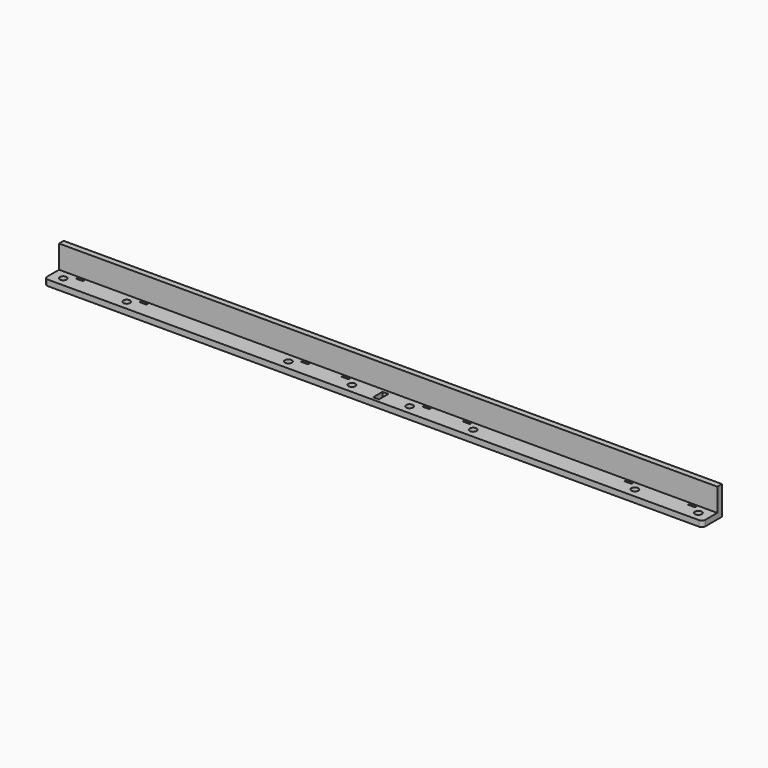
from build123d import *

# Parameters (mm, degrees)
F0_W     = 570
F0_H     = 5
F1_DEPTH = 20
F0_R     = 3
F0_W_2   = 5.1
F0_H_2   = 10.1
F0_W_3   = 6
F0_H_3   = 2
F2_DEPTH = 5


with BuildPart() as f1:
    # F0 (on Top) → F1 (new body)
    with BuildSketch(Plane.XY):
        with Locations((0, 10.5)):
            Rectangle(F0_W, F0_H)
    extrude(amount=F1_DEPTH)

    # F0 (on Top) → F2 (join)
    with BuildSketch(Plane.XY):
        with BuildLine():
            ThreePointArc((-285, -5), (-284.12132, -7.12132), (-282, -8))
            Line((-282, -8), (282, -8))
            ThreePointArc((282, -8), (284.12132, -7.12132), (285, -5))
            Line((285, -5), (285, 8))
            Line((285, 8), (-285, 8))
            Line((-285, 8), (-285, -5))
        make_face()
        with Locations((-275, 0)):
            Circle(F0_R, mode=Mode.SUBTRACT)
        with Locations((-220, 0)):
            Circle(F0_R, mode=Mode.SUBTRACT)
        with Locations((-80, 0)):
            Circle(F0_R, mode=Mode.SUBTRACT)
        with Locations((-25, 0)):
            Circle(F0_R, mode=Mode.SUBTRACT)
        Rectangle(F0_W_2, F0_H_2, mode=Mode.SUBTRACT)
        with Locations((25, 0)):
            Circle(F0_R, mode=Mode.SUBTRACT)
        with Locations((80, 0)):
            Circle(F0_R, mode=Mode.SUBTRACT)
        with Locations((220, 0)):
            Circle(F0_R, mode=Mode.SUBTRACT)
        with Locations((275, 0)):
            Circle(F0_R, mode=Mode.SUBTRACT)
        with Locations((-265, 6)):
            Rectangle(F0_W_3, F0_H_3, mode=Mode.SUBTRACT)
        with Locations((-210, 6)):
            Rectangle(F0_W_3, F0_H_3, mode=Mode.SUBTRACT)
        with Locations((-70, 6)):
            Rectangle(F0_W_3, F0_H_3, mode=Mode.SUBTRACT)
        with Locations((-35, 6)):
            Rectangle(F0_W_3, F0_H_3, mode=Mode.SUBTRACT)
        with Locations((35, 6)):
            Rectangle(F0_W_3, F0_H_3, mode=Mode.SUBTRACT)
        with Locations((70, 6)):
            Rectangle(F0_W_3, F0_H_3, mode=Mode.SUBTRACT)
        with Locations((210, 6)):
            Rectangle(F0_W_3, F0_H_3, mode=Mode.SUBTRACT)
        with Locations((265, 6)):
            Rectangle(F0_W_3, F0_H_3, mode=Mode.SUBTRACT)
        with Locations((0, 10.5)):
            Rectangle(F0_W, F0_H)
    extrude(amount=-F2_DEPTH)


solid = f1.part
